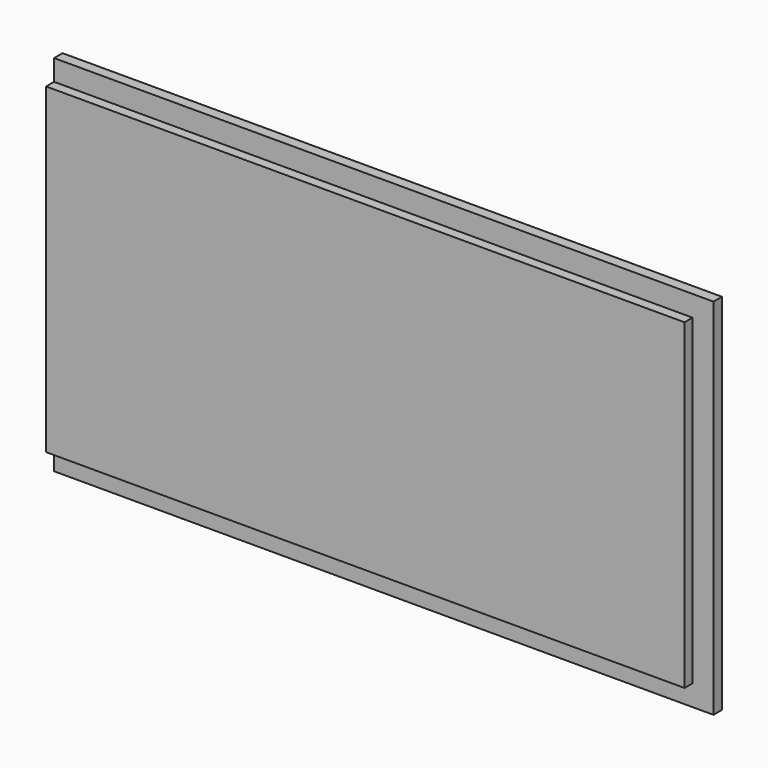
from build123d import *

# Parameters (mm, degrees)
F0_W     = 575.46875
F0_H     = 317.5
F1_DEPTH = 18
F3_DEPTH = 8.73125


with BuildPart() as f1:
    # F0 (on Front) → F1 (new body)
    with BuildSketch(Plane.XZ):
        Rectangle(F0_W, F0_H)
    extrude(amount=F1_DEPTH)

    # F2 (on face) → F3 (cut)
    with BuildSketch(Plane.XZ.offset(18)):
        Polygon((287.734375, -158.75), (287.734375, 158.75), (-287.734375, 158.75), (-287.734375, 140.49375), (269.478125, 140.49375), (269.478125, -140.49375), (-287.734375, -140.49375), (-287.734375, -158.75), align=None)
    extrude(amount=-F3_DEPTH, mode=Mode.SUBTRACT)


solid = f1.part
